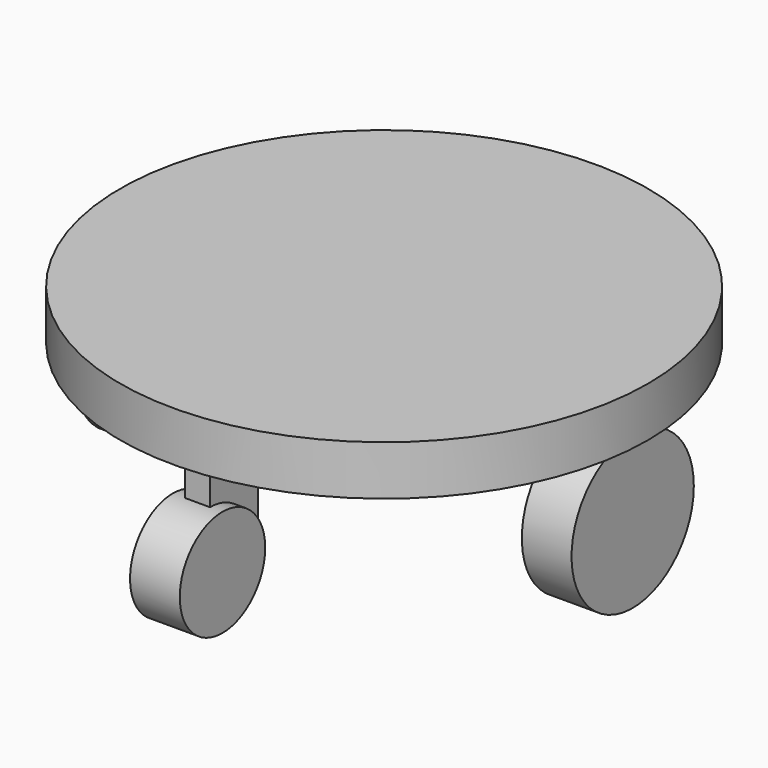
from build123d import *

# Parameters (mm, degrees)
F0_R          = 67.4309942843
F1_DEPTH      = 12.7
F2_DEPTH      = 25.4
F4_START      = 50.8
F3_R          = 19.5198711008
F4_DEPTH      = 12.7
F5_START      = -50.8
F5_DEPTH      = 12.7
F3_R_2        = 13.6397422016
F6_DEPTH      = 6.35
F6_DEPTH_BACK = 6.35


with BuildPart() as f1:
    # F0 (on Top) → F1 (new body)
    with BuildSketch(Plane.XY):
        Circle(F0_R)
        Polygon((3.1635994092, -44.2903488874), (3.1635994092, -59.5500506461), (0, -59.5500506461), (-3.1635994092, -59.5500506461), (-3.1635994092, -44.2903488874), (0, -44.2903488874), align=None, mode=Mode.SUBTRACT)
        Polygon((-3.1635994092, 44.2903488874), (-3.1635994092, 59.5500506461), (0, 59.5500506461), (3.1635994092, 59.5500506461), (3.1635994092, 44.2903488874), (0, 44.2903488874), align=None, mode=Mode.SUBTRACT)
        Polygon((0, 59.5500506461), (-3.1635994092, 59.5500506461), (-3.1635994092, 44.2903488874), (0, 44.2903488874), (3.1635994092, 44.2903488874), (3.1635994092, 59.5500506461), align=None)
        Polygon((0, -59.5500506461), (3.1635994092, -59.5500506461), (3.1635994092, -44.2903488874), (0, -44.2903488874), (-3.1635994092, -44.2903488874), (-3.1635994092, -59.5500506461), align=None)
    extrude(amount=F1_DEPTH)

    # F0 (on Top) → F2 (join)
    with BuildSketch(Plane.XY):
        Polygon((0, -59.5500506461), (3.1635994092, -59.5500506461), (3.1635994092, -44.2903488874), (0, -44.2903488874), (-3.1635994092, -44.2903488874), (-3.1635994092, -59.5500506461), align=None)
        Polygon((0, 59.5500506461), (-3.1635994092, 59.5500506461), (-3.1635994092, 44.2903488874), (0, 44.2903488874), (3.1635994092, 44.2903488874), (3.1635994092, 59.5500506461), align=None)
    extrude(amount=-F2_DEPTH)

    # F3 (on Right) → F4 (join)
    with BuildSketch(Plane.YZ.offset(F4_START)):
        with Locations((0, -19.5198711008)):
            Circle(F3_R)
    extrude(amount=F4_DEPTH)

    # F3 (on Right) → F5 (join)
    with BuildSketch(Plane.YZ.offset(F5_START)):
        with Locations((0, -19.5198711008)):
            Circle(F3_R)
    extrude(amount=-F5_DEPTH)


with BuildPart() as f6:
    # F3 (on Right) → F6 (new body, two sides)
    with BuildSketch(Plane.YZ) as f6_sk:
        with Locations((-59.5500506461, -25.4)):
            Circle(F3_R_2)
    extrude(amount=F6_DEPTH)
    extrude(f6_sk.sketch, amount=-F6_DEPTH_BACK)


with BuildPart() as f6b:
    # F3 (on Right) → F6, piece 2 (new body, two sides)
    with BuildSketch(Plane.YZ) as f6_2_sk:
        with Locations((44.2903488874, -25.4)):
            Circle(F3_R_2)
    extrude(amount=F6_DEPTH)
    extrude(f6_2_sk.sketch, amount=-F6_DEPTH_BACK)


solid = Compound([f1.part, f6.part, f6b.part])
